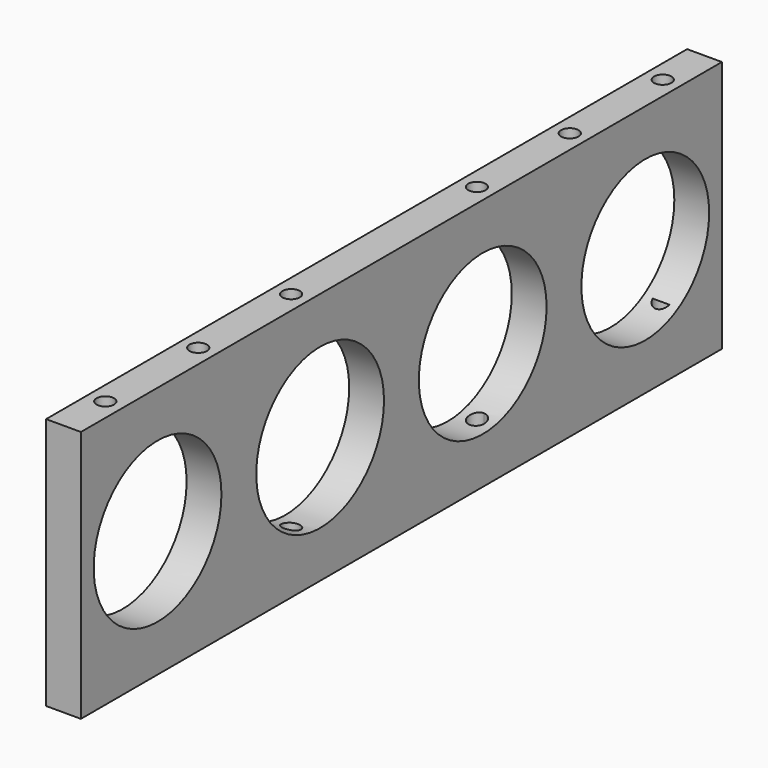
from build123d import *

# Parameters (mm, degrees)
F0_W     = 276
F0_H     = 87
F1_DEPTH = 12
F2_R     = 27.5
F3_DEPTH = 25
F4_R     = 3
F5_DEPTH = 20
F6_R     = 3
F7_DEPTH = 20


with BuildPart() as f1:
    # F0 (on Right) → F1 (new body)
    with BuildSketch(Plane.YZ):
        with Locations((138, 43.5)):
            Rectangle(F0_W, F0_H)
    extrude(amount=F1_DEPTH)

    # F2 (on face) → F3 (cut)
    with BuildSketch(Plane.YZ.offset(12)):
        with Locations((103, 43.5)):
            Circle(F2_R)
        with Locations((173, 43.5)):
            Circle(F2_R)
        with Locations((33, 43.5)):
            Circle(F2_R)
        with Locations((243, 43.5)):
            Circle(F2_R)
    extrude(amount=-F3_DEPTH, mode=Mode.SUBTRACT)

    # F4 (on face) → F5 (cut)
    with BuildSketch(Plane.XY.offset(87)):
        with Locations((6, 258)):
            Circle(F4_R)
        with Locations((6, 218)):
            Circle(F4_R)
        with Locations((6, 178)):
            Circle(F4_R)
        with Locations((6, 18)):
            Circle(F4_R)
        with Locations((6, 58)):
            Circle(F4_R)
        with Locations((6, 98)):
            Circle(F4_R)
    extrude(amount=-F5_DEPTH, mode=Mode.SUBTRACT)

    # F6 (on face) → F7 (cut)
    with BuildSketch(Plane(origin=(0, 0, 0), x_dir=(1, 0, 0), z_dir=(0, 0, -1))):
        with BuildLine():
            ThreePointArc((6, -255), (3, -258), (6, -261))
            Line((6, -261), (6, -258))
            Line((6, -258), (6, -255))
        make_face()
        with BuildLine():
            ThreePointArc((6, -175), (3, -178), (6, -181))
            Line((6, -181), (6, -175))
        make_face()
        with BuildLine():
            Line((6, -175), (6, -181))
            ThreePointArc((6, -181), (8.12132, -180.12132), (9, -178))
            ThreePointArc((9, -178), (8.12132, -175.87868), (6, -175))
        make_face()
        with BuildLine():
            ThreePointArc((6, -215), (3, -218), (6, -221))
            Line((6, -221), (6, -218))
            Line((6, -218), (6, -215))
        make_face()
        with BuildLine():
            Line((6, -218), (6, -221))
            ThreePointArc((6, -221), (8.12132, -220.12132), (9, -218))
            ThreePointArc((9, -218), (8.12132, -215.87868), (6, -215))
            Line((6, -215), (6, -218))
        make_face()
        with BuildLine():
            Line((6, -258), (6, -261))
            ThreePointArc((6, -261), (8.12132, -260.12132), (9, -258))
            Line((9, -258), (6, -258))
        make_face()
        with BuildLine():
            Line((6, -255), (6, -258))
            Line((6, -258), (9, -258))
            ThreePointArc((9, -258), (8.12132, -255.87868), (6, -255))
        make_face()
        with BuildLine():
            Line((6, -18), (9, -18))
            ThreePointArc((9, -18), (3.87868, -15.87868), (6, -21))
            Line((6, -21), (6, -18))
        make_face()
        with BuildLine():
            ThreePointArc((9, -58), (8.12132, -55.87868), (6, -55))
            ThreePointArc((6, -55), (3.87868, -60.12132), (9, -58))
        make_face()
        with BuildLine():
            ThreePointArc((6, -21), (8.12132, -20.12132), (9, -18))
            Line((9, -18), (6, -18))
            Line((6, -18), (6, -21))
        make_face()
        with Locations((6, -98)):
            Circle(F6_R)
    extrude(amount=-F7_DEPTH, mode=Mode.SUBTRACT)


solid = f1.part
